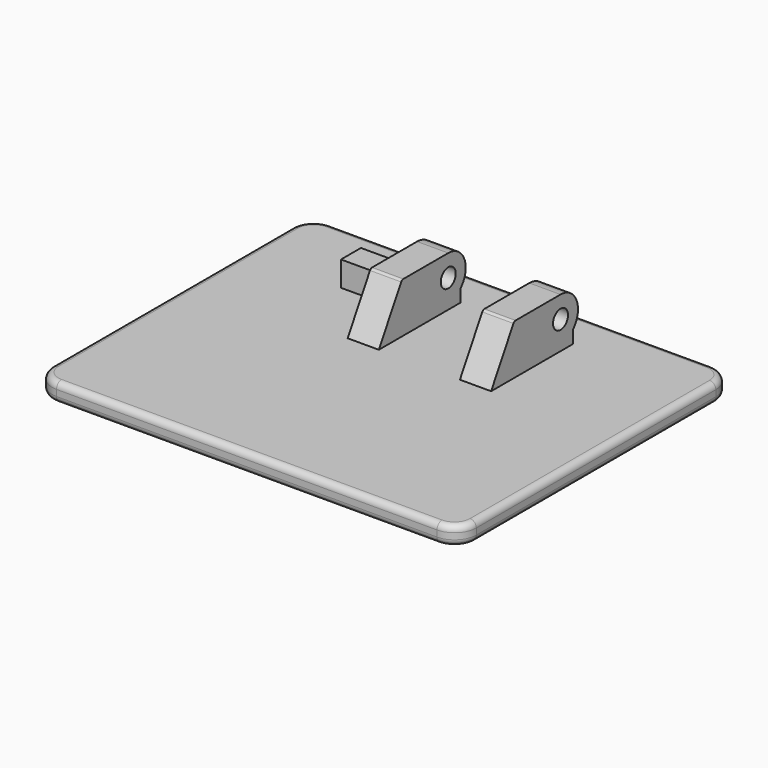
from build123d import *

# Parameters (mm, degrees)
F1_DEPTH      = 3
F2_R          = 1.5
F2_W          = 4
F2_H          = 4
F3_DEPTH      = 13.5
F3_DEPTH_BACK = 9.5
F4_DEPTH      = 14.5
F5_DEPTH      = 8.5
F5_DEPTH_BACK = 4.5
F6_R          = 1
F9_DEPTH      = 1


with BuildPart() as f1:
    # F0 (on Top) → F1 (new body)
    with BuildSketch(Plane.XY):
        with BuildLine():
            Line((30.5, 27.5), (-30.5, 27.5))
            ThreePointArc((-30.5, 27.5), (-32.9748737342, 26.4748737342), (-34, 24))
            Line((-34, 24), (-34, -24))
            ThreePointArc((-34, -24), (-32.9748737342, -26.4748737342), (-30.5, -27.5))
            Line((-30.5, -27.5), (30.5, -27.5))
            ThreePointArc((30.5, -27.5), (32.9748737342, -26.4748737342), (34, -24))
            Line((34, -24), (34, 24))
            ThreePointArc((34, 24), (32.9748737342, 26.4748737342), (30.5, 27.5))
        make_face()
    extrude(amount=F1_DEPTH)

    # F2 (on Right) → F3 (join, two sides)
    with BuildSketch(Plane.YZ) as f3_sk:
        with BuildLine():
            Line((9.0669872981, 10.75), (4.5925227119, 3))
            Line((4.5925227119, 3), (21, 3))
            Line((21, 3), (21, 5.0505102572))
            ThreePointArc((21, 5.0505102572), (21.7267021942, 8.8558735008), (18.5, 11))
            Line((18.5, 11), (9.5, 11))
            ThreePointArc((9.5, 11), (9.25, 10.9330127019), (9.0669872981, 10.75))
        make_face()
        with Locations((18.5, 7.5)):
            Circle(F2_R, mode=Mode.SUBTRACT)
        with Locations((11.5, 8.5)):
            Rectangle(F2_W, F2_H, mode=Mode.SUBTRACT)
        with Locations((11.5, 8.5)):
            Rectangle(F2_W, F2_H)
    extrude(amount=F3_DEPTH)
    extrude(f3_sk.sketch, amount=-F3_DEPTH_BACK)

    # F2 (on Right) → F4 (join, through all)
    with BuildSketch(Plane.YZ):
        with Locations((11.5, 8.5)):
            Rectangle(F2_W, F2_H)
    extrude(amount=-F4_DEPTH)

    # F2 (on Right) → F5 (cut, two sides)
    with BuildSketch(Plane.YZ) as f5_sk:
        with BuildLine():
            Line((9.0669872981, 10.75), (4.5925227119, 3))
            Line((4.5925227119, 3), (21, 3))
            Line((21, 3), (21, 5.0505102572))
            ThreePointArc((21, 5.0505102572), (21.7267021942, 8.8558735008), (18.5, 11))
            Line((18.5, 11), (9.5, 11))
            ThreePointArc((9.5, 11), (9.25, 10.9330127019), (9.0669872981, 10.75))
        make_face()
        with Locations((18.5, 7.5)):
            Circle(F2_R, mode=Mode.SUBTRACT)
        with Locations((11.5, 8.5)):
            Rectangle(F2_W, F2_H, mode=Mode.SUBTRACT)
        with Locations((11.5, 8.5)):
            Rectangle(F2_W, F2_H)
    extrude(amount=F5_DEPTH, mode=Mode.SUBTRACT)
    extrude(f5_sk.sketch, amount=-F5_DEPTH_BACK, mode=Mode.SUBTRACT)

    # F6
    f6_edges = [f1.edges().sort_by_distance(p)[0] for p in [
        (0, -27.5, 0),
        (0, -27.5, 3),
    ]]
    fillet(f6_edges, radius=F6_R)

    # F8 (on face) → F9 (cut)
    with BuildSketch(Plane(origin=(0, 0, 0), x_dir=(1, 0, 0), z_dir=(0, 0, -1))):
        with BuildLine():
            Line((19.6177823817, -4.8641717246), (21.0291530011, -3.9822494804))
            ThreePointArc((21.0291530011, -3.9822494804), (21.1585557306, -3.6451438448), (20.8701772218, -3.4278350515))
            Line((20.8701772218, -3.4278350515), (11.0740224249, -3.4278350515))
            ThreePointArc((11.0740224249, -3.4278350515), (10.7856439161, -3.2105262583), (10.9150466456, -2.8734206227))
            Line((10.9150466456, -2.8734206227), (24.1127514461, 5.3734206227))
            ThreePointArc((24.1127514461, 5.3734206227), (24.2421541756, 5.7105262583), (23.9537756668, 5.9278350515))
            Line((23.9537756668, 5.9278350515), (7.7590025694, 5.9278350515))
            ThreePointArc((7.7590025694, 5.9278350515), (5.8295410786, 5.6566669231), (4.0495677197, 4.8641717246))
            Line((4.0495677197, 4.8641717246), (2.1580967416, 3.6822494804))
            ThreePointArc((2.1580967416, 3.6822494804), (2.0286940121, 3.3451438448), (2.3170725209, 3.1278350515))
            Line((2.3170725209, 3.1278350515), (12.1132273178, 3.1278350515))
            ThreePointArc((12.1132273178, 3.1278350515), (12.4016058266, 2.9105262583), (12.2722030971, 2.5734206227))
            Line((12.2722030971, 2.5734206227), (-0.4454013447, -5.3734206227))
            ThreePointArc((-0.4454013447, -5.3734206227), (-0.5748040742, -5.7105262583), (-0.2864255655, -5.9278350515))
            Line((-0.2864255655, -5.9278350515), (15.908347532, -5.9278350515))
            ThreePointArc((15.908347532, -5.9278350515), (17.8378090227, -5.6566669231), (19.6177823817, -4.8641717246))
        make_face()
        with BuildLine():
            Line((-5.1827407197, -4.560267917), (-3.4575505927, -3.4822494804))
            ThreePointArc((-3.4575505927, -3.4822494804), (-3.3281478632, -3.1451438448), (-3.616526372, -2.9278350515))
            Line((-3.616526372, -2.9278350515), (-6.7218778514, -2.9278350515))
            Line((-6.7218778514, -2.9278350515), (-7.5220451159, -3.4278350515))
            Line((-7.5220451159, -3.4278350515), (-19.2220485259, -3.4278350515))
            ThreePointArc((-19.2220485259, -3.4278350515), (-19.4568309729, -3.3145894425), (-19.5143595453, -3.0603497352))
            Line((-19.5143595453, -3.0603497352), (-19.3168125364, -2.2046796322))
            ThreePointArc((-19.3168125364, -2.2046796322), (-19.211255908, -2.0373825014), (-19.024501517, -1.9721649485))
            Line((-19.024501517, -1.9721649485), (-7.3452009568, -1.9721649485))
            ThreePointArc((-7.3452009568, -1.9721649485), (-7.0339436385, -1.8634690269), (-6.8580159244, -1.5846404756))
            Line((-6.8580159244, -1.5846404756), (-6.5117136377, -0.0846404756))
            ThreePointArc((-6.5117136377, -0.0846404756), (-6.6075945917, 0.3390923699), (-6.9988986701, 0.5278350515))
            Line((-6.9988986701, 0.5278350515), (-18.3088101245, 0.5278350515))
            ThreePointArc((-18.3088101245, 0.5278350515), (-18.5435925715, 0.6410806606), (-18.6011211439, 0.8953203678))
            Line((-18.6011211439, 0.8953203678), (-18.1393847617, 2.8953203678))
            ThreePointArc((-18.1393847617, 2.8953203678), (-18.0338281332, 3.0626174986), (-17.8470737422, 3.1278350515))
            Line((-17.8470737422, 3.1278350515), (-5.8134825092, 3.1278350515))
            Line((-5.8134825092, 3.1278350515), (-5.0133152446, 2.6278350515))
            Line((-5.0133152446, 2.6278350515), (-1.9079637652, 2.6278350515))
            ThreePointArc((-1.9079637652, 2.6278350515), (-1.6195852564, 2.8451438448), (-1.748987986, 3.1822494804))
            Line((-1.748987986, 3.1822494804), (-4.4406262286, 4.8641717246))
            ThreePointArc((-4.4406262286, 4.8641717246), (-6.2205995875, 5.6566669231), (-8.1500610782, 5.9278350515))
            Line((-8.1500610782, 5.9278350515), (-20.6720310554, 5.9278350515))
            ThreePointArc((-20.6720310554, 5.9278350515), (-21.9170603287, 5.4930513653), (-22.620771185, 4.3777371602))
            Line((-22.620771185, 4.3777371602), (-23.3027861367, 1.4236058509))
            ThreePointArc((-23.3027861367, 1.4236058509), (-23.2457131813, 0.5594631094), (-22.7204795121, -0.1291075788))
            ThreePointArc((-22.7204795121, -0.1291075788), (-22.5997954695, -0.4176373884), (-22.8013911757, -0.6567466947))
            ThreePointArc((-22.8013911757, -0.6567466947), (-23.6483083742, -1.208565733), (-24.1172110997, -2.1040562277))
            Line((-24.1172110997, -2.1040562277), (-24.5757966488, -4.09040847))
            ThreePointArc((-24.5757966488, -4.09040847), (-24.2881537869, -5.3616070065), (-23.1142415516, -5.9278350515))
            Line((-23.1142415516, -5.9278350515), (-9.9520140978, -5.9278350515))
            ThreePointArc((-9.9520140978, -5.9278350515), (-7.4712778955, -5.579190315), (-5.1827407197, -4.560267917))
        make_face()
    extrude(amount=-F9_DEPTH, mode=Mode.SUBTRACT)


solid = f1.part
